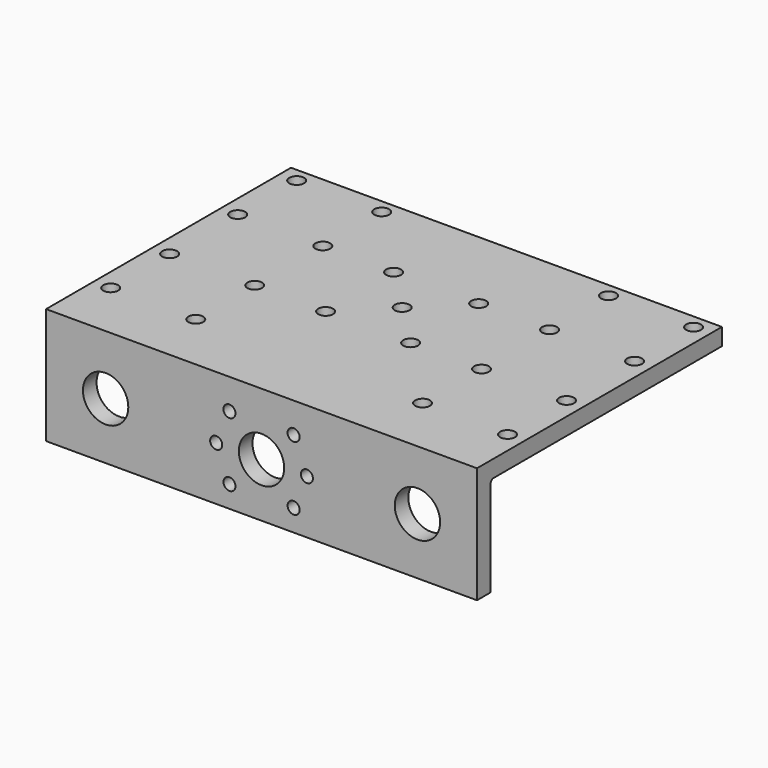
from build123d import *

# Parameters (mm, degrees)
SKETCH_W      = 152
SKETCH_H      = 102
SKETCH_R      = 2.625
PAD_DEPTH     = 6
SKETCH001_W   = 152
SKETCH001_H   = 41
SKETCH001_R   = 8
SKETCH001_R_2 = 2.125
PAD001_DEPTH  = 6
FILLET_R      = 1.25


with BuildPart() as part:
    # Sketch → Pad (new body)
    with BuildSketch(Plane.XY):
        with Locations((0, -5)):
            Rectangle(SKETCH_W, SKETCH_H)
        with Locations((-70, 41)):
            Circle(SKETCH_R, mode=Mode.SUBTRACT)
        with Locations((-40, 41)):
            Circle(SKETCH_R, mode=Mode.SUBTRACT)
        with Locations((-70, 15)):
            Circle(SKETCH_R, mode=Mode.SUBTRACT)
        with Locations((-40, 15)):
            Circle(SKETCH_R, mode=Mode.SUBTRACT)
        with Locations((-70, -15)):
            Circle(SKETCH_R, mode=Mode.SUBTRACT)
        with Locations((-40, -15)):
            Circle(SKETCH_R, mode=Mode.SUBTRACT)
        with Locations((-70, -41)):
            Circle(SKETCH_R, mode=Mode.SUBTRACT)
        with Locations((-40, -41)):
            Circle(SKETCH_R, mode=Mode.SUBTRACT)
        with Locations((40, 41)):
            Circle(SKETCH_R, mode=Mode.SUBTRACT)
        with Locations((70, 41)):
            Circle(SKETCH_R, mode=Mode.SUBTRACT)
        with Locations((40, 15)):
            Circle(SKETCH_R, mode=Mode.SUBTRACT)
        with Locations((70, 15)):
            Circle(SKETCH_R, mode=Mode.SUBTRACT)
        with Locations((40, -15)):
            Circle(SKETCH_R, mode=Mode.SUBTRACT)
        with Locations((70, -15)):
            Circle(SKETCH_R, mode=Mode.SUBTRACT)
        with Locations((40, -41)):
            Circle(SKETCH_R, mode=Mode.SUBTRACT)
        with Locations((70, -41)):
            Circle(SKETCH_R, mode=Mode.SUBTRACT)
        Circle(SKETCH_R, mode=Mode.SUBTRACT)
        with Locations((-15, 15)):
            Circle(SKETCH_R, mode=Mode.SUBTRACT)
        with Locations((15, 15)):
            Circle(SKETCH_R, mode=Mode.SUBTRACT)
        with Locations((-15, -15)):
            Circle(SKETCH_R, mode=Mode.SUBTRACT)
        with Locations((15, -15)):
            Circle(SKETCH_R, mode=Mode.SUBTRACT)
    extrude(amount=PAD_DEPTH)

    # Sketch001 → Pad001 (new body)
    with BuildSketch(Plane.XZ.offset(56)):
        with Locations((0, -14.5)):
            Rectangle(SKETCH001_W, SKETCH001_H)
        with Locations((0, -16)):
            Circle(SKETCH001_R, mode=Mode.SUBTRACT)
        with Locations((-55, -15)):
            Circle(SKETCH001_R, mode=Mode.SUBTRACT)
        with Locations((55, -15)):
            Circle(SKETCH001_R, mode=Mode.SUBTRACT)
        with Locations((-11.313708, -4.686292)):
            Circle(SKETCH001_R_2, mode=Mode.SUBTRACT)
        with Locations((11.313708, -4.686292)):
            Circle(SKETCH001_R_2, mode=Mode.SUBTRACT)
        with Locations((-16, -16)):
            Circle(SKETCH001_R_2, mode=Mode.SUBTRACT)
        with Locations((16, -16)):
            Circle(SKETCH001_R_2, mode=Mode.SUBTRACT)
        with Locations((-11.313708, -27.313708)):
            Circle(SKETCH001_R_2, mode=Mode.SUBTRACT)
        with Locations((11.313708, -27.313708)):
            Circle(SKETCH001_R_2, mode=Mode.SUBTRACT)
    extrude(amount=PAD001_DEPTH)

    # Fillet
    fillet_edges = [part.edges().sort_by_distance(p)[0] for p in [
        (0, -56, 0),
    ]]
    fillet(fillet_edges, radius=FILLET_R)


solid = part.part
